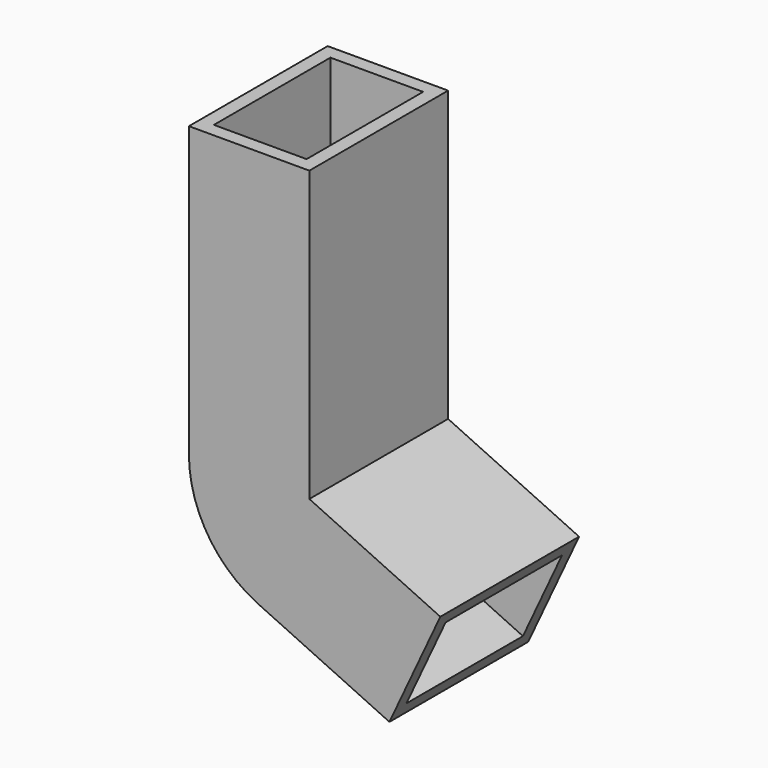
from build123d import *

# Parameters (mm, degrees)
F0_W        = 12.5
F0_H        = 18
F0_W_2      = 9.62
F0_H_2      = 15.12
F1_DEPTH    = 30
F1_FACE_W   = 12.5
F1_FACE_H   = 18
F1_FACE_W_2 = 9.62
F1_FACE_H_2 = 15.12
F2_ANGLE    = 65
F3_DEPTH    = 15


with BuildPart() as f1:
    # F0 (on Top) → F1 (new body)
    with BuildSketch(Plane.XY):
        Rectangle(F0_W, F0_H)
        Rectangle(F0_W_2, F0_H_2, mode=Mode.SUBTRACT)
    extrude(amount=F1_DEPTH)

    # F1_face (on face) → F2 (revolve)
    with BuildSketch(Plane(origin=(0, 0, 0), x_dir=(1, 0, 0), z_dir=(0, 0, -1))):
        Rectangle(F1_FACE_W, F1_FACE_H)
        Rectangle(F1_FACE_W_2, F1_FACE_H_2, mode=Mode.SUBTRACT)
    revolve(axis=Axis((6.25, 0, 0), (0, -1, 0)), revolution_arc=F2_ANGLE)

    # F3 (add): a face of the model
    f3_faces = [f1.faces().sort_by_distance(p)[0] for p in [
        (3.6086358641, -8.78085393, -5.664423669),
    ]]
    extrude(f3_faces, amount=F3_DEPTH)


solid = f1.part
